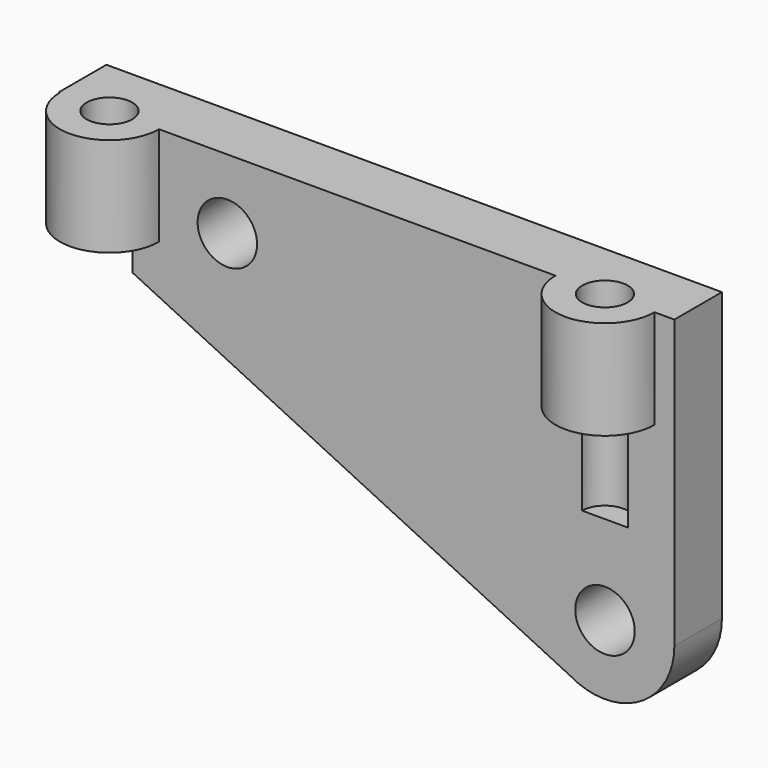
from build123d import *

# Parameters (mm, degrees)
F0_R     = 1.5
F1_DEPTH = 3
F2_R     = 2.5
F3_DEPTH = 5
F4_R     = 1.15
F5_DEPTH = 10


with BuildPart() as f1:
    # F0 (on Front) → F1 (new body)
    with BuildSketch(Plane.XZ):
        with BuildLine():
            Line((-15.850437, 19.086891), (9.944777, 6.560055))
            ThreePointArc((9.944777, 6.560055), (13.448446, 6.553682), (15.202122, 9.586891))
            Line((15.202122, 9.586891), (15.202122, 24.086891))
            Line((15.202122, 24.086891), (-10.850437, 24.086891))
            Line((-10.850437, 24.086891), (-15.850437, 24.086891))
            Line((-15.850437, 24.086891), (-15.850437, 19.086891))
        make_face()
        with BuildLine():
            ThreePointArc((13.00116, 8.836891), (10.952122, 8.287853), (10.403084, 10.336891))
            ThreePointArc((10.403084, 10.336891), (12.090351, 11.035779), (13.202122, 9.586891))
            ThreePointArc((13.202122, 9.586891), (13.151011, 9.198662), (13.00116, 8.836891))
        make_face(mode=Mode.SUBTRACT)
        with Locations((-7.350437, 20.586891)):
            Circle(F0_R, mode=Mode.SUBTRACT)
    extrude(amount=F1_DEPTH)

    # F2 (on face) → F3 (join)
    with BuildSketch(Plane.XY.offset(24.086891)):
        with Locations((11.702122, 0)):
            Circle(F2_R)
        with Locations((-13.297878, 0)):
            Circle(F2_R)
    extrude(amount=-F3_DEPTH)

    # F4 (on face) → F5 (cut)
    with BuildSketch(Plane.XY.offset(24.086891)):
        with Locations((11.702122, 0)):
            Circle(F4_R)
        with Locations((-13.297878, 0)):
            Circle(F4_R)
    extrude(amount=-F5_DEPTH, mode=Mode.SUBTRACT)


with BuildPart() as f6_1:
    # F6: instance of F1
    add(f1.part.mirror(Plane.XZ))


solid = f6_1.part
